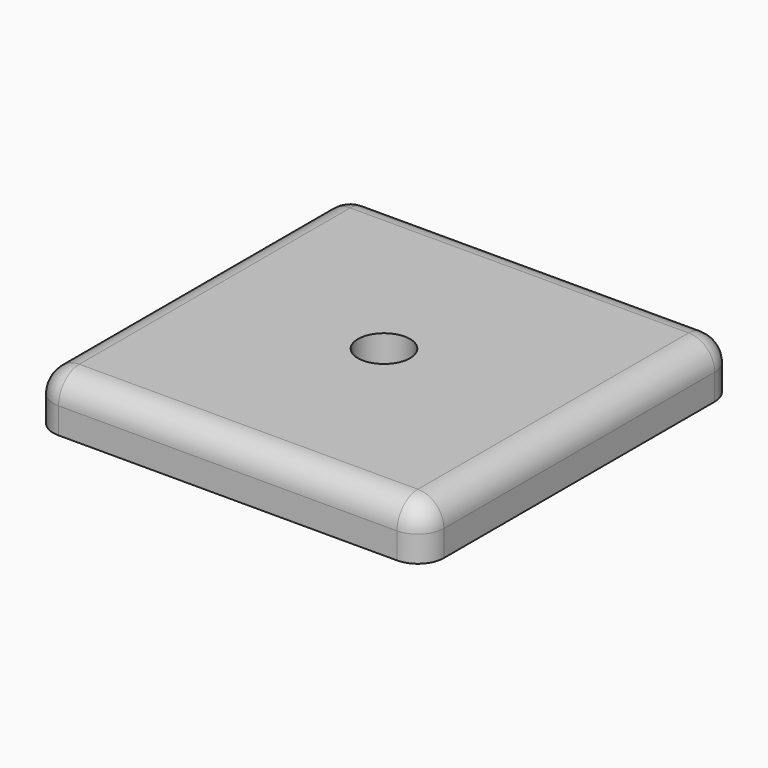
from build123d import *

# Parameters (mm, degrees)
F0_W     = 15
F0_H     = 15
F1_DEPTH = 2
F3_D     = 2
F4_R     = 1


with BuildPart() as f1:
    # F0 (on Top) → F1 (new body)
    with BuildSketch(Plane.XY):
        with Locations((-7.5, 7.5)):
            Rectangle(F0_W, F0_H)
    extrude(amount=F1_DEPTH)

    # F3 (through all)
    with Locations(Plane.XY.offset(2)):
        with Locations((-7.5, 7.5)):
            Hole(F3_D / 2)

    # F4
    f4_edges = [f1.edges().sort_by_distance(p)[0] for p in [
        (-7.5, 0, 2),
        (-15, 7.5, 2),
        (-7.5, 15, 2),
        (0, 7.5, 2),
        (0, 0, 1),
        (-15, 0, 1),
        (0, 15, 1),
        (-15, 15, 1),
    ]]
    fillet(f4_edges, radius=F4_R)


solid = f1.part
